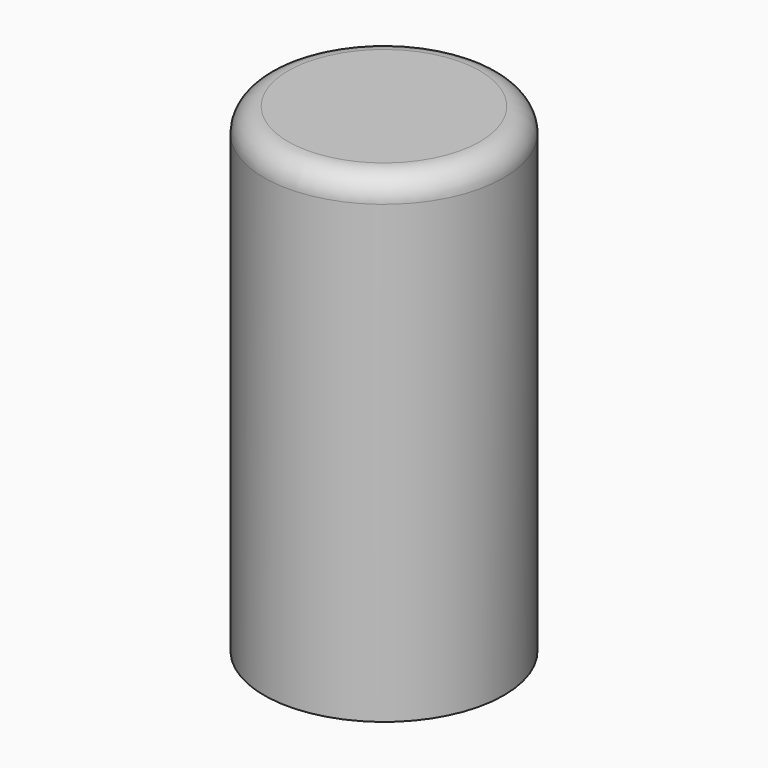
from build123d import *

# Parameters (mm, degrees)
F0_R          = 25
F1_DEPTH      = 60
F1_DEPTH_BACK = 40
F2_R          = 5


with BuildPart() as f1:
    # F0 (on Top) → F1 (new body, two sides)
    with BuildSketch(Plane.XY) as f1_sk:
        Circle(F0_R)
    extrude(amount=F1_DEPTH)
    extrude(f1_sk.sketch, amount=-F1_DEPTH_BACK)

    # F2
    f2_edges = [f1.edges().sort_by_distance(p)[0] for p in [
        (-25, 0, 60),
    ]]
    fillet(f2_edges, radius=F2_R)


solid = f1.part
